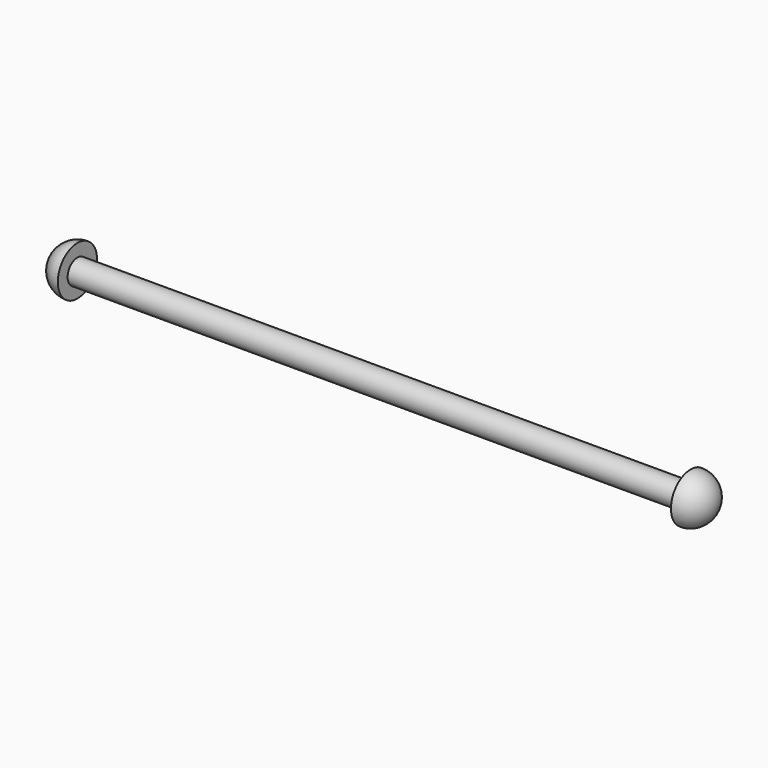
from build123d import *

# Parameters (mm, degrees)
CYLINDER_R      = 2
CYLINDER_DEPTH  = 102
SPHERE_ANGLE    = 180
SPHERE001_ANGLE = 180


with BuildPart() as cylinder:
    # Cylinder → Cylinder (new body)
    with BuildSketch(Plane(origin=(-1, 50, 3.4), x_dir=(0, 0, 1), z_dir=(1, 0, 0))):
        Circle(CYLINDER_R)
    extrude(amount=CYLINDER_DEPTH)


with BuildPart() as sphere:
    # Sphere → Sphere (revolve)
    with BuildSketch(Plane(origin=(0, 50, 3.5), x_dir=(0, 1, 0), z_dir=(1, 0, 0))):
        with BuildLine():
            ThreePointArc((0, -4), (4, 0), (0, 4))
            Line((0, 4), (0, -4))
        make_face()
    revolve(axis=Axis((0, 50, 3.5), (0, 0, 1)), revolution_arc=SPHERE_ANGLE)


with BuildPart() as fusion:
    # Sphere001 → Sphere001 (revolve)
    with BuildSketch(Plane(origin=(100, 50, 3.5), x_dir=(0, -1, 0), z_dir=(-1, 0, 0))):
        with BuildLine():
            ThreePointArc((0, -4), (4, 0), (0, 4))
            Line((0, 4), (0, -4))
        make_face()
    revolve(axis=Axis((100, 50, 3.5), (0, 0, 1)), revolution_arc=SPHERE001_ANGLE)

    # Fusion: union Cylinder, Sphere
    add(cylinder.part)
    add(sphere.part)


with BuildPart() as fusion_1:
    # Fusion placement: moved
    add(fusion.part.moved(Location((0, -50, 0))))


solid = fusion_1.part
